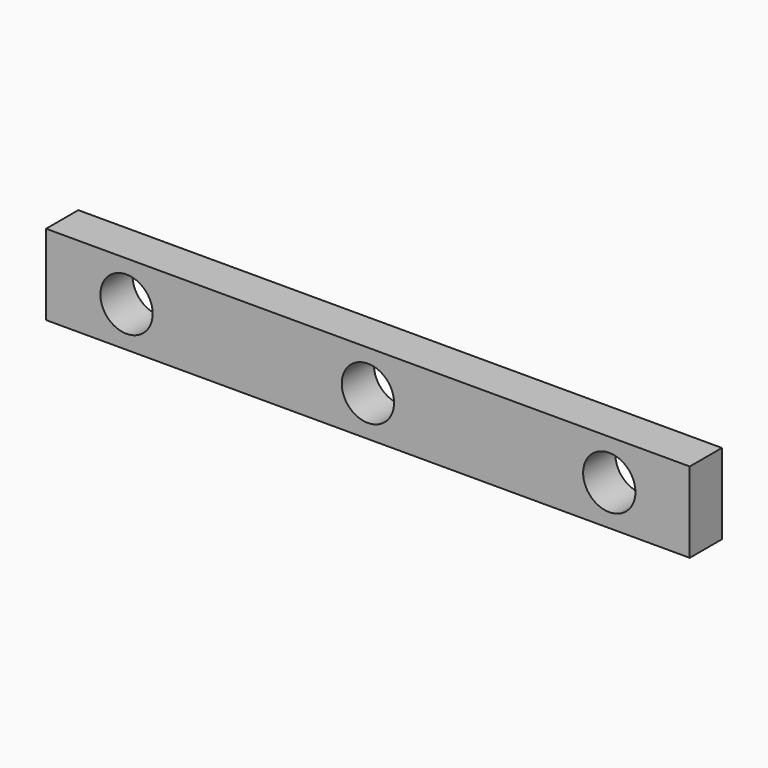
from build123d import *

# Parameters (mm, degrees)
F0_W     = 80
F0_H     = 10
F0_R     = 3.25
F1_DEPTH = 5
F2_DEPTH = 5


with BuildPart() as f1:
    # F0 (on Front) → F1 (new body)
    with BuildSketch(Plane.XZ):
        with Locations((0, -6.107064)):
            Rectangle(F0_W, F0_H)
        with Locations((-30, -6.107064)):
            Circle(F0_R, mode=Mode.SUBTRACT)
        with Locations((0, -6.107064)):
            Circle(F0_R, mode=Mode.SUBTRACT)
        with Locations((30, -6.107064)):
            Circle(F0_R, mode=Mode.SUBTRACT)
    extrude(amount=F1_DEPTH)

    # F0 (on Front) → F2 (join)
    with BuildSketch(Plane.XZ):
        with Locations((0, -6.107064)):
            Rectangle(F0_W, F0_H)
        with Locations((-30, -6.107064)):
            Circle(F0_R, mode=Mode.SUBTRACT)
        with Locations((0, -6.107064)):
            Circle(F0_R, mode=Mode.SUBTRACT)
        with Locations((30, -6.107064)):
            Circle(F0_R, mode=Mode.SUBTRACT)
    extrude(amount=F2_DEPTH)


solid = f1.part
